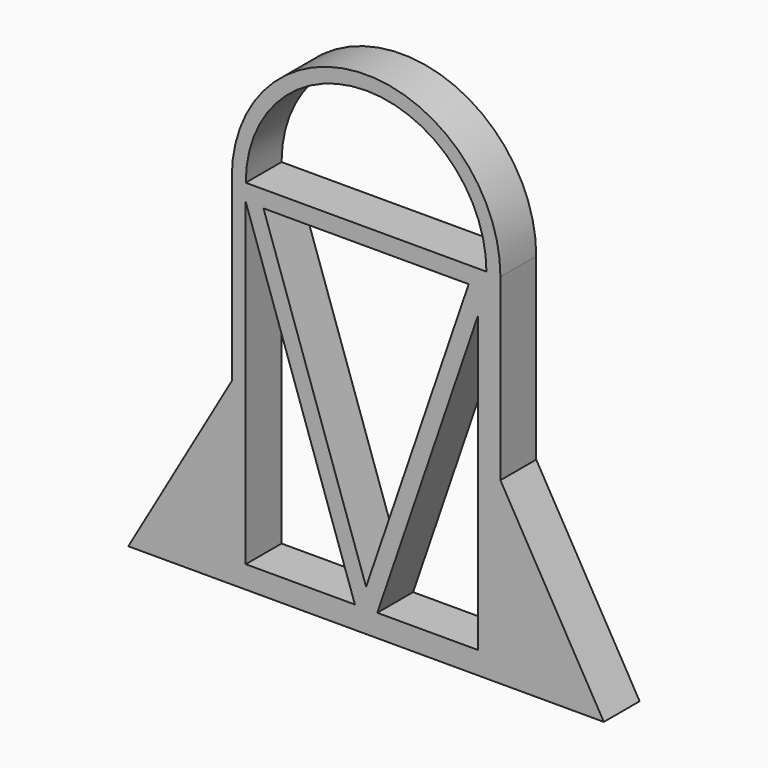
from build123d import *

# Parameters (mm, degrees)
F1_DEPTH = 25.4
F3_DEPTH = 25.401
F5_DEPTH = 25.4


with BuildPart() as f1:
    # F0 (on Front) → F1 (new body)
    with BuildSketch(Plane.XZ):
        with BuildLine():
            Line((0, 203.2), (0, 0))
            Line((0, 0), (152.4, 0))
            Line((152.4, 0), (152.4, 203.2))
            ThreePointArc((152.4, 203.2), (76.2, 279.4), (0, 203.2))
        make_face()
        with BuildLine():
            ThreePointArc((7.9375, 203.2), (76.2, 271.4625), (144.4625, 203.2))
            Line((144.4625, 203.2), (7.9375, 203.2))
        make_face(mode=Mode.SUBTRACT)
    extrude(amount=F1_DEPTH)

    # F2 (on face) → F3 (cut, through all)
    with BuildSketch(Plane.XZ.offset(25.4)):
        Polygon((7.9375, 193.675), (7.9375, 12.7), (69.85, 12.7), align=None)
        Polygon((139.7, 12.7), (139.7, 179.753846), (82.55, 12.7), align=None)
        Polygon((134.395535, 193.675), (18.004465, 193.675), (76.2, 23.564975), align=None)
    extrude(amount=-F3_DEPTH, mode=Mode.SUBTRACT)

    # F4 (on face) → F5 (join, through all)
    with BuildSketch(Plane.XZ.offset(25.4)):
        Polygon((0, 0), (0, 101.6), (-58.658787, 0), align=None)
        Polygon((211.058787, 0), (152.4, 101.6), (152.4, 0), align=None)
    extrude(amount=-F5_DEPTH)


solid = f1.part
